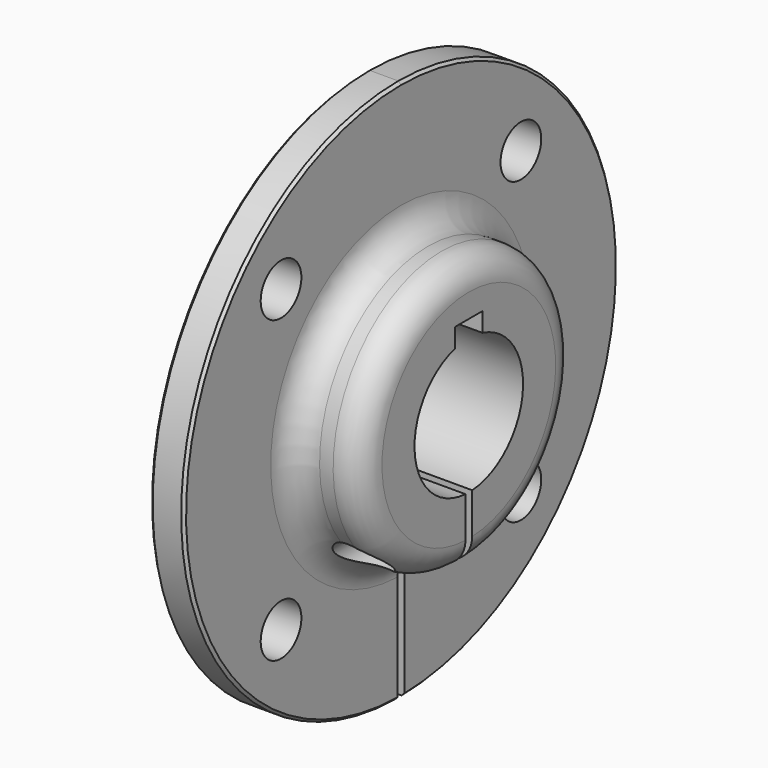
from build123d import *

# Parameters (mm, degrees)
F2_R          = 5.08
F3_SIZE       = 0.508
F4_R          = 4.7625
F4_W          = 6.35
F4_H          = 6.35
F4_W_2        = 1.5875
F4_H_2        = 60.4483003783
F5_DEPTH      = 19.051
F6_R          = 3.96875
F7_DEPTH      = 50.801
F7_DEPTH_BACK = 50.801


with BuildPart() as f1:
    # F0 (on Front) → F1 (revolve)
    with BuildSketch(Plane.XZ):
        Polygon((0, 50.8), (0, 12.7), (19.05, 12.7), (19.05, 25.4), (6.35, 25.4), (6.35, 50.8), align=None)
    revolve(axis=Axis((9.525, 0, 0), (1, 0, 0)))

    # F2
    f2_edges = [f1.edges().sort_by_distance(p)[0] for p in [
        (19.05, 0, -25.4),
        (6.35, 0, -25.4),
    ]]
    fillet(f2_edges, radius=F2_R)

    # F3
    f3_edges = [f1.edges().sort_by_distance(p)[0] for p in [
        (6.35, 0, -50.8),
        (0, 0, -50.8),
    ]]
    chamfer(f3_edges, length=F3_SIZE)

    # F4 (on face) → F5 (cut, through all)
    with BuildSketch(Plane(origin=(0, 0, 0), x_dir=(0, -1, 0), z_dir=(-1, 0, 0))):
        with Locations((-28.0633003783, 28.0633003783)):
            Circle(F4_R)
        with Locations((-28.0633003783, -28.0633003783)):
            Circle(F4_R)
        with Locations((28.0633003783, -28.0633003783)):
            Circle(F4_R)
        with Locations((28.0633003783, 28.0633003783)):
            Circle(F4_R)
        with Locations((0, 12.7)):
            Rectangle(F4_W, F4_H)
        with Locations((0, -23.2391501892)):
            Rectangle(F4_W_2, F4_H_2)
    extrude(amount=-F5_DEPTH, mode=Mode.SUBTRACT)

    # F6 (on Front) → F7 (cut, two sides)
    with BuildSketch(Plane.XZ) as f7_sk:
        with Locations((12.7, -18.8722)):
            Circle(F6_R)
    extrude(amount=-F7_DEPTH, mode=Mode.SUBTRACT)
    extrude(f7_sk.sketch, amount=F7_DEPTH_BACK, mode=Mode.SUBTRACT)


solid = f1.part
